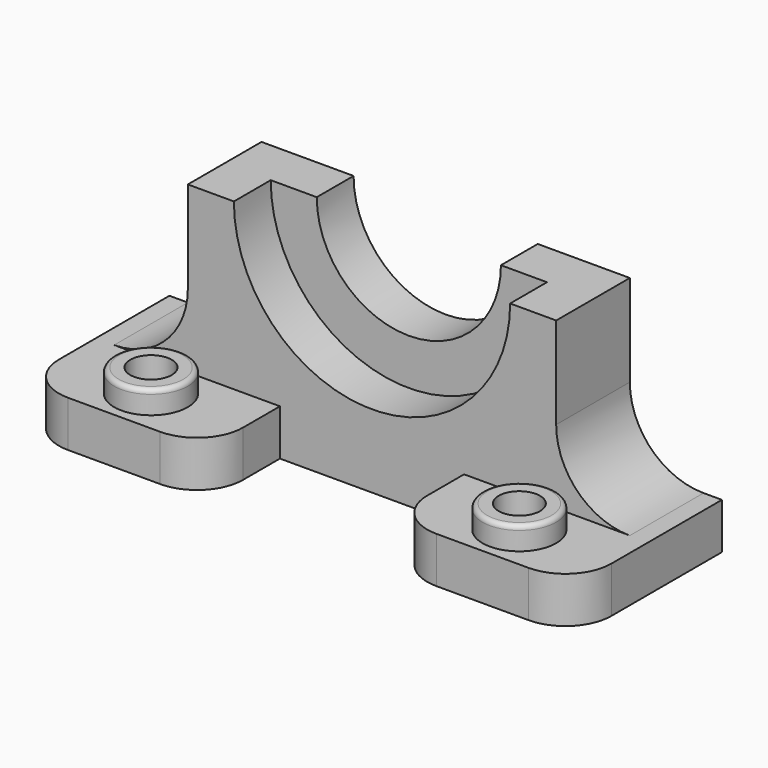
from build123d import *

# Parameters (mm, degrees)
F0_W      = 101.6
F0_H      = 58.316330242
F2_DEPTH  = 25.4
F1_W      = 50.8
F1_H      = 12.7
F3_DEPTH  = 50.8
F5_R      = 12.7
F4_R      = 10.16
F6_DEPTH  = 6.35
F8_R      = 1.27
F10_DEPTH = 12.7
F12_DEPTH = 12.701
F13_R     = 20.32
F14_R     = 5.715
F15_DEPTH = 19.051


with BuildPart() as f2:
    # F0 (on Front) → F2 (new body)
    with BuildSketch(Plane.XZ):
        with Locations((0, 29.158165121)):
            Rectangle(F0_W, F0_H)
    extrude(amount=F2_DEPTH)

    # F1 (on Front) → F3 (join)
    with BuildSketch(Plane.XZ):
        with Locations((-50.8, 6.35)):
            Rectangle(F1_W, F1_H)
        with Locations((50.8, 6.35)):
            Rectangle(F1_W, F1_H)
    extrude(amount=F3_DEPTH)

    # F5
    f5_edges = [f2.edges().sort_by_distance(p)[0] for p in [
        (-76.2, -50.8, 6.35),
        (-25.4, -50.8, 6.35),
        (25.4, -50.8, 6.35),
        (76.2, -50.8, 6.35),
    ]]
    fillet(f5_edges, radius=F5_R)

    # F4 (on face) → F6 (join)
    with BuildSketch(Plane.XY.offset(12.7)):
        with Locations((-50.8, -38.1)):
            Circle(F4_R)
    extrude(amount=F6_DEPTH)

    # F7: F2 across plane


with BuildPart() as f2_1:
    add(f2.part)
    add(f2.part.mirror(Plane.YZ))

    # F8
    f8_edges = [f2_1.edges().sort_by_distance(p)[0] for p in [
        (-60.96, -38.1, 19.05),
        (60.96, -38.1, 19.05),
    ]]
    fillet(f8_edges, radius=F8_R)

    # F9 (on face) → F10 (cut)
    with BuildSketch(Plane.XZ.offset(25.4)):
        with BuildLine():
            ThreePointArc((-38.1, 58.316330242), (0, 20.216330242), (38.1, 58.316330242))
            Line((38.1, 58.316330242), (-38.1, 58.316330242))
        make_face()
    extrude(amount=-F10_DEPTH, mode=Mode.SUBTRACT)

    # F11 (on face) → F12 (cut, through all)
    with BuildSketch(Plane.XZ.offset(12.7)):
        with BuildLine():
            ThreePointArc((-25.4, 58.316330242), (0, 32.916330242), (25.4, 58.316330242))
            Line((25.4, 58.316330242), (-25.4, 58.316330242))
        make_face()
    extrude(amount=-F12_DEPTH, mode=Mode.SUBTRACT)

    # F13
    f13_edges = [f2_1.edges().sort_by_distance(p)[0] for p in [
        (50.8, -12.7, 12.7),
        (-50.8, -12.7, 12.7),
    ]]
    fillet(f13_edges, radius=F13_R)

    # F14 (on face) → F15 (cut, through all)
    with BuildSketch(Plane.XY.offset(19.05)):
        with Locations((-50.8, -38.1)):
            Circle(F14_R)
        with Locations((50.8, -38.1)):
            Circle(F14_R)
    extrude(amount=-F15_DEPTH, mode=Mode.SUBTRACT)


solid = f2_1.part
